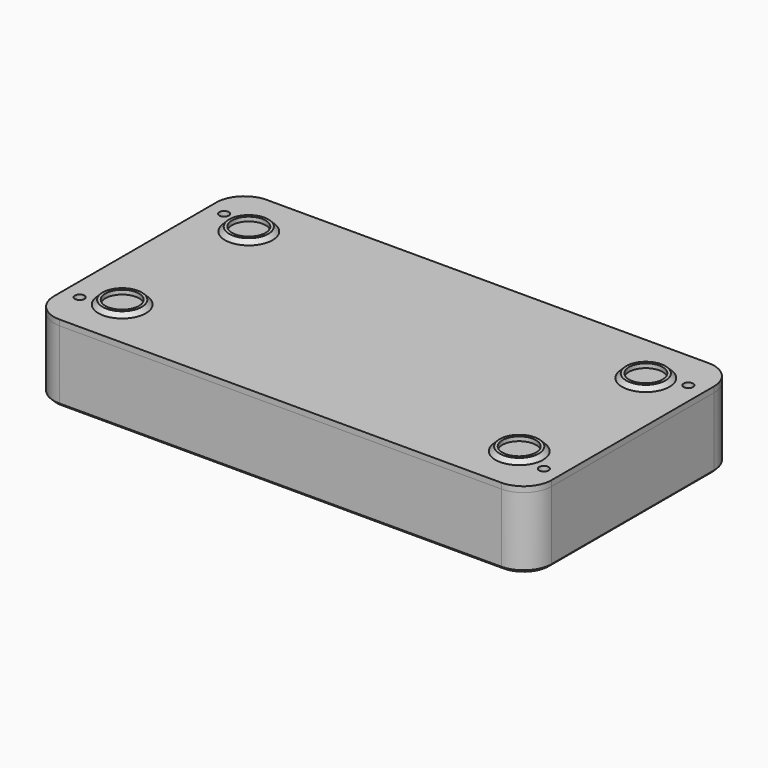
from build123d import *

# Parameters (mm, degrees)
SKETCH_W               = 177.8
SKETCH_H               = 92.519
PAD_DEPTH              = 25.4
FILLET_R               = 10
THICKNESS_T            = -2
SKETCH001_W            = 2.54
SKETCH001_H            = 76.2
POCKET_DEPTH           = 2.001
SKETCH002_W            = 4.5466
SKETCH002_H            = 88.519
PAD001_DEPTH           = 11.0744
LINEARPATTERN_COUNT    = 9
LINEARPATTERN_PITCH    = 17.78
SKETCH003_R            = 1.45
POCKET001_DEPTH        = 8
LINEARPATTERN001_COUNT = 5
LINEARPATTERN001_PITCH = 35.56
SKETCH007_W            = 8
SKETCH007_H            = 8
SKETCH007_R            = 2
PAD004_DEPTH           = 23.4
POCKET004_DEPTH        = 2
CHAMFER001_SIZE        = 1
PAD002_DEPTH           = 2
PAD003_DEPTH           = 2
SKETCH006_R            = 1.7
POCKET002_DEPTH        = 4.001
SKETCH011_W            = 25.4
SKETCH011_H            = 0.6
POCKET005_DEPTH        = 26.4933
PAD005_DEPTH           = 2
SKETCH008_R            = 1.7
POCKET003_DEPTH        = 2.001
SKETCH009_R            = 7
SKETCH009_R_2          = 6
PAD006_DEPTH           = 1.5
CHAMFER_SIZE           = 1.49


with BuildPart() as body:
    # Sketch → Pad (new body)
    with BuildSketch(Plane.XY):
        with Locations((88.9, 46.2595)):
            Rectangle(SKETCH_W, SKETCH_H)
    extrude(amount=PAD_DEPTH)

    # Fillet
    fillet_edges = [body.edges().sort_by_distance(p)[0] for p in [
        (0, 0, 12.7),
        (177.8, 0, 12.7),
        (177.8, 92.519, 12.7),
        (0, 92.519, 12.7),
    ]]
    fillet(fillet_edges, radius=FILLET_R)

    # Thickness
    thickness_openings = [body.faces().sort_by_distance(p)[0] for p in [
        (88.9, 46.2595, 25.4),
    ]]
    offset(amount=THICKNESS_T, openings=thickness_openings)

    # Sketch001 (on Face19 of Thickness) → Pocket (cut, through all)
    with BuildSketch(Plane.XY.offset(2)):
        with Locations((26.67, 46.2595)):
            Rectangle(SKETCH001_W, SKETCH001_H)
        with Locations((44.45, 46.2595)):
            Rectangle(SKETCH001_W, SKETCH001_H)
        with Locations((62.23, 46.2595)):
            Rectangle(SKETCH001_W, SKETCH001_H)
        with Locations((80.01, 46.2595)):
            Rectangle(SKETCH001_W, SKETCH001_H)
        with Locations((97.79, 46.2595)):
            Rectangle(SKETCH001_W, SKETCH001_H)
        with Locations((115.57, 46.2595)):
            Rectangle(SKETCH001_W, SKETCH001_H)
        with Locations((133.35, 46.2595)):
            Rectangle(SKETCH001_W, SKETCH001_H)
        with Locations((151.13, 46.2595)):
            Rectangle(SKETCH001_W, SKETCH001_H)
    extrude(amount=-POCKET_DEPTH, mode=Mode.SUBTRACT)

    # Sketch002 (on Face51 of Pocket) → Pad001 (join)
    with BuildSketch(Plane.XY.offset(2)):
        with Locations((17.78, 46.2595)):
            Rectangle(SKETCH002_W, SKETCH002_H)
    pad001 = extrude(amount=PAD001_DEPTH)

    # LinearPattern: Pad001 ×9
    with Locations(*[(i * LINEARPATTERN_PITCH, 0, 0) for i in range(1, LINEARPATTERN_COUNT)]):
        add(pad001)

    # Sketch003 (on Face61 of LinearPattern) → Pocket001 (cut)
    with BuildSketch(Plane.XY.offset(13.0744)):
        with Locations((17.78, 66.643)):
            Circle(SKETCH003_R)
        with Locations((17.78, 25.876)):
            Circle(SKETCH003_R)
    pocket001 = extrude(amount=-POCKET001_DEPTH, mode=Mode.SUBTRACT)

    # LinearPattern001: Pocket001 ×5
    with Locations(*[(i * LINEARPATTERN001_PITCH, 0, 0) for i in range(1, LINEARPATTERN001_COUNT)]):
        add(pocket001, mode=Mode.SUBTRACT)

    # Sketch007 (on Face59 of LinearPattern001) → Pad004 (join)
    with BuildSketch(Plane.XY.offset(2)):
        with Locations((6, 78.519)):
            Rectangle(SKETCH007_W, SKETCH007_H)
        with Locations((6, 78.519)):
            Circle(SKETCH007_R, mode=Mode.SUBTRACT)
        with Locations((6, 14)):
            Rectangle(SKETCH007_W, SKETCH007_H)
        with Locations((6, 14)):
            Circle(SKETCH007_R, mode=Mode.SUBTRACT)
        with Locations((171.8, 14)):
            Rectangle(SKETCH007_W, SKETCH007_H)
        with Locations((171.8, 14)):
            Circle(SKETCH007_R, mode=Mode.SUBTRACT)
        with Locations((171.8, 78.519)):
            Rectangle(SKETCH007_W, SKETCH007_H)
        with Locations((171.8, 78.519)):
            Circle(SKETCH007_R, mode=Mode.SUBTRACT)
    extrude(amount=PAD004_DEPTH)

    # Sketch010 (on Face1 of Pad004) → Pocket004 (cut)
    with BuildSketch(Plane.YZ.offset(2)):
        Polygon((36.925, 15.0744), (55.594, 15.0744), (55.594, 16.2174), (50.895, 16.2174), (50.895, 19.1892), (41.624, 19.1892), (41.624, 16.2174), (36.925, 16.2174), align=None)
    extrude(amount=-POCKET004_DEPTH, mode=Mode.SUBTRACT)

    # Chamfer001
    chamfer001_edges = [body.edges().sort_by_distance(p)[0] for p in [
        (177.8, 46.2595, 0),
        (174.871068, 89.590068, 0),
        (88.9, 92.519, 0),
        (2.928932, 89.590068, 0),
        (0, 46.2595, 0),
        (2.928932, 2.928932, 0),
        (88.9, 0, 0),
        (174.871068, 2.928932, 0),
    ]]
    chamfer(chamfer001_edges, length=CHAMFER001_SIZE)


with BuildPart() as sliderstrap:
    # Sketch004 (on Face1 of ShapeBinder) → Pad002 (new body)
    with BuildSketch(Plane.XY.offset(13.0744)):
        Polygon((2, 70.643), (2, 21.876), (162.2933, 21.876), (162.2933, 29.876), (42, 29.876), (42, 62.643), (162.2933, 62.643), (162.2933, 70.643), align=None)
    extrude(amount=PAD002_DEPTH)

    # Sketch005 (on Face10 of Pad002) → Pad003 (join)
    with BuildSketch(Plane.XY.offset(15.0744)):
        Polygon((2, 58.594), (37.47, 58.594), (37.47, 49.8155), (34.47, 49.8155), (34.47, 55.594), (2, 55.594), align=None)
        Polygon((2, 36.925), (34.47, 36.925), (34.47, 42.7035), (37.47, 42.7035), (37.47, 33.925), (2, 33.925), align=None)
    extrude(amount=PAD003_DEPTH)

    # Sketch006 (on Face2 of Pad003) → Pocket002 (cut, through all)
    with BuildSketch(Plane(origin=(0, 0, 13.0744), x_dir=(1, 0, 0), z_dir=(0, 0, -1))):
        with Locations((17.78, -25.876)):
            Circle(SKETCH006_R)
        with Locations((53.34, -25.876)):
            Circle(SKETCH006_R)
        with Locations((88.9, -25.876)):
            Circle(SKETCH006_R)
        with Locations((124.46, -25.876)):
            Circle(SKETCH006_R)
        with Locations((160.02, -25.876)):
            Circle(SKETCH006_R)
        with Locations((160.02, -66.643)):
            Circle(SKETCH006_R)
        with Locations((124.46, -66.643)):
            Circle(SKETCH006_R)
        with Locations((88.9, -66.643)):
            Circle(SKETCH006_R)
        with Locations((53.34, -66.643)):
            Circle(SKETCH006_R)
        with Locations((17.78, -66.643)):
            Circle(SKETCH006_R)
    extrude(amount=-POCKET002_DEPTH, mode=Mode.SUBTRACT)

    # Sketch011 (on Face16 of Pocket002) → Pocket005 (cut)
    with BuildSketch(Plane.YZ.offset(42)):
        with Locations((46.2595, 13.3744)):
            Rectangle(SKETCH011_W, SKETCH011_H)
    extrude(amount=-POCKET005_DEPTH, mode=Mode.SUBTRACT)


with BuildPart() as bottomlid:
    # ShapeBinder001 → Pad005 (new body)
    with BuildSketch(Plane(origin=(88.9, 46.2595, 25.4), x_dir=(0, 1, 0), z_dir=(0, 0, 1))):
        with BuildLine():
            Line((-46.2595, 78.9), (-46.2595, -78.9))
            ThreePointArc((-46.2595, -78.9), (-43.330568, -85.971068), (-36.2595, -88.9))
            Line((-36.2595, -88.9), (36.2595, -88.9))
            ThreePointArc((36.2595, -88.9), (43.330568, -85.971068), (46.2595, -78.9))
            Line((46.2595, -78.9), (46.2595, 78.9))
            ThreePointArc((46.2595, 78.9), (43.330568, 85.971068), (36.2595, 88.9))
            Line((36.2595, 88.9), (-36.2595, 88.9))
            ThreePointArc((-36.2595, 88.9), (-43.330568, 85.971068), (-46.2595, 78.9))
        make_face()
    extrude(amount=PAD005_DEPTH)

    # Sketch008 (on Face10 of Pad005) → Pocket003 (cut, through all)
    with BuildSketch(Plane.XY.offset(27.4)):
        with Locations((6, 78.519)):
            Circle(SKETCH008_R)
        with Locations((6, 14)):
            Circle(SKETCH008_R)
        with Locations((171.8, 78.519)):
            Circle(SKETCH008_R)
        with Locations((171.8, 14)):
            Circle(SKETCH008_R)
    extrude(amount=-POCKET003_DEPTH, mode=Mode.SUBTRACT)

    # Sketch009 (on Face5 of Pocket003) → Pad006 (join)
    with BuildSketch(Plane.XY.offset(27.4)):
        with Locations((18, 74.519)):
            Circle(SKETCH009_R)
        with Locations((18, 74.519)):
            Circle(SKETCH009_R_2, mode=Mode.SUBTRACT)
        with Locations((18, 18)):
            Circle(SKETCH009_R)
        with Locations((18, 18)):
            Circle(SKETCH009_R_2, mode=Mode.SUBTRACT)
        with Locations((159.8, 74.519)):
            Circle(SKETCH009_R)
        with Locations((159.8, 74.519)):
            Circle(SKETCH009_R_2, mode=Mode.SUBTRACT)
        with Locations((159.8, 18)):
            Circle(SKETCH009_R)
        with Locations((159.8, 18)):
            Circle(SKETCH009_R_2, mode=Mode.SUBTRACT)
    extrude(amount=PAD006_DEPTH)

    # Chamfer
    chamfer_edges = [bottomlid.edges().sort_by_distance(p)[0] for p in [
        (11, 74.519, 27.4),
        (11, 18, 27.4),
        (152.8, 18, 27.4),
        (152.8, 74.519, 27.4),
    ]]
    chamfer(chamfer_edges, length=CHAMFER_SIZE)


solid = Compound([body.part, sliderstrap.part, bottomlid.part])
